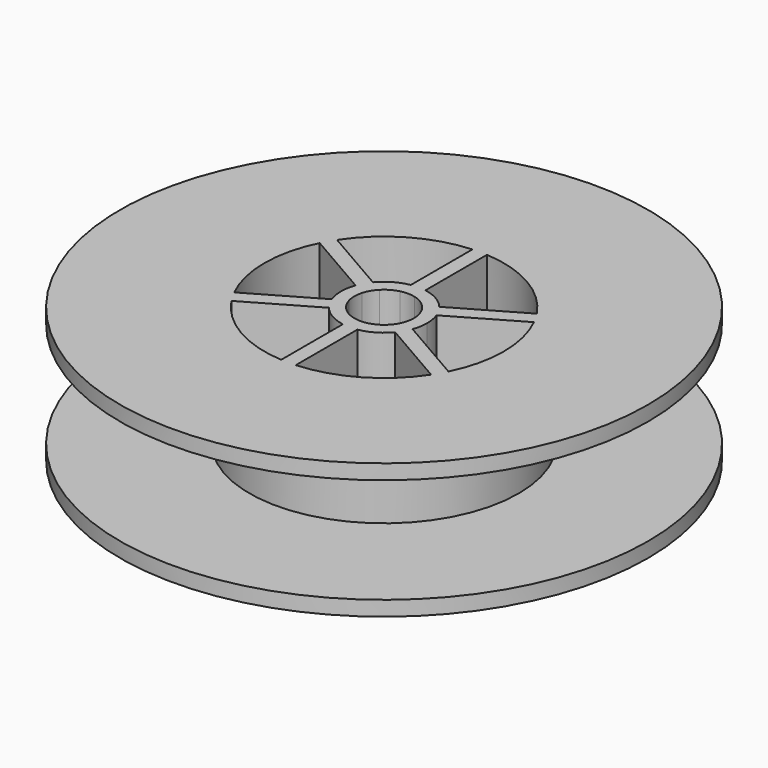
from build123d import *

# Parameters (mm, degrees)
F0_R     = 44.375
F1_DEPTH = 22.7
F2_R     = 44.375
F2_R_2   = 22.625
F3_DEPTH = 20.2
F4_R     = 44.375
F4_R_2   = 22.625
F5_DEPTH = 2.5


with BuildPart() as f1:
    # F0 (on Top) → F1 (new body)
    with BuildSketch(Plane.XY):
        Circle(F0_R)
        with BuildLine():
            ThreePointArc((18.0086459229, 8.9835570362), (19.5887674982, 4.6147386601), (20.125, 0))
            ThreePointArc((20.125, 0), (19.5887674982, -4.6147386601), (18.0086459229, -8.9835570362))
            Line((18.0086459229, -8.9835570362), (19.3430855029, -9.753996087))
            Line((19.3430855029, -9.753996087), (18.1187511512, -11.8746053896))
            Line((18.1187511512, -11.8746053896), (16.7843115712, -11.1041663389))
            ThreePointArc((16.7843115712, -11.1041663389), (10.0625, -17.4287612512), (1.2243343517, -20.0877233751))
            Line((1.2243343517, -20.0877233751), (1.2243343517, -21.6286014766))
            Line((1.2243343517, -21.6286014766), (-1.2243343517, -21.6286014766))
            Line((-1.2243343517, -21.6286014766), (-1.2243343517, -20.0877233751))
            ThreePointArc((-1.2243343517, -20.0877233751), (-10.0625, -17.4287612512), (-16.7843115712, -11.1041663389))
            Line((-16.7843115712, -11.1041663389), (-18.1187511512, -11.8746053896))
            Line((-18.1187511512, -11.8746053896), (-19.3430855029, -9.753996087))
            Line((-19.3430855029, -9.753996087), (-18.0086459229, -8.9835570362))
            ThreePointArc((-18.0086459229, -8.9835570362), (-20.125, 0), (-18.0086459229, 8.9835570362))
            Line((-18.0086459229, 8.9835570362), (-19.3430855029, 9.753996087))
            Line((-19.3430855029, 9.753996087), (-18.1187511512, 11.8746053896))
            Line((-18.1187511512, 11.8746053896), (-16.7843115712, 11.1041663389))
            ThreePointArc((-16.7843115712, 11.1041663389), (-10.0625, 17.4287612512), (-1.2243343517, 20.0877233751))
            Line((-1.2243343517, 20.0877233751), (-1.2243343517, 21.6286014766))
            Line((-1.2243343517, 21.6286014766), (1.2243343517, 21.6286014766))
            Line((1.2243343517, 21.6286014766), (1.2243343517, 20.0877233751))
            ThreePointArc((1.2243343517, 20.0877233751), (10.0625, 17.4287612512), (16.7843115712, 11.1041663389))
            Line((16.7843115712, 11.1041663389), (18.1187511512, 11.8746053896))
            Line((18.1187511512, 11.8746053896), (19.3430855029, 9.753996087))
            Line((19.3430855029, 9.753996087), (18.0086459229, 8.9835570362))
        make_face(mode=Mode.SUBTRACT)
        with BuildLine():
            Line((-5.5763406448, 4.6332413075), (-16.7843115712, 11.1041663389))
            ThreePointArc((-16.7843115712, 11.1041663389), (-17.4287612512, 10.0625), (-18.0086459229, 8.9835570362))
            Line((-18.0086459229, 8.9835570362), (-6.8006749965, 2.5126320048))
            ThreePointArc((-6.8006749965, 2.5126320048), (-6.2786841774, 3.625), (-5.5763406448, 4.6332413075))
        make_face()
        with BuildLine():
            Line((1.2243343517, 7.1458733123), (1.2243343517, 20.0877233751))
            ThreePointArc((1.2243343517, 20.0877233751), (0, 20.125), (-1.2243343517, 20.0877233751))
            Line((-1.2243343517, 20.0877233751), (-1.2243343517, 7.1458733123))
            ThreePointArc((-1.2243343517, 7.1458733123), (0, 7.25), (1.2243343517, 7.1458733123))
        make_face()
        with BuildLine():
            Line((6.8006749965, 2.5126320048), (18.0086459229, 8.9835570362))
            ThreePointArc((18.0086459229, 8.9835570362), (17.4287612512, 10.0625), (16.7843115712, 11.1041663389))
            Line((16.7843115712, 11.1041663389), (5.5763406448, 4.6332413075))
            ThreePointArc((5.5763406448, 4.6332413075), (6.2786841774, 3.625), (6.8006749965, 2.5126320048))
        make_face()
        with BuildLine():
            ThreePointArc((16.7843115712, -11.1041663389), (17.4287612512, -10.0625), (18.0086459229, -8.9835570362))
            Line((18.0086459229, -8.9835570362), (6.8006749965, -2.5126320048))
            ThreePointArc((6.8006749965, -2.5126320048), (6.2786841774, -3.625), (5.5763406448, -4.6332413075))
            Line((5.5763406448, -4.6332413075), (16.7843115712, -11.1041663389))
        make_face()
        with BuildLine():
            ThreePointArc((-18.0086459229, -8.9835570362), (-17.4287612512, -10.0625), (-16.7843115712, -11.1041663389))
            Line((-16.7843115712, -11.1041663389), (-5.5763406448, -4.6332413075))
            ThreePointArc((-5.5763406448, -4.6332413075), (-6.2786841774, -3.625), (-6.8006749965, -2.5126320048))
            Line((-6.8006749965, -2.5126320048), (-18.0086459229, -8.9835570362))
        make_face()
        with BuildLine():
            ThreePointArc((-1.2243343517, -20.0877233751), (0, -20.125), (1.2243343517, -20.0877233751))
            Line((1.2243343517, -20.0877233751), (1.2243343517, -7.1458733123))
            ThreePointArc((1.2243343517, -7.1458733123), (0, -7.25), (-1.2243343517, -7.1458733123))
            Line((-1.2243343517, -7.1458733123), (-1.2243343517, -20.0877233751))
        make_face()
        with BuildLine():
            ThreePointArc((-18.0086459229, 8.9835570362), (-17.4287612512, 10.0625), (-16.7843115712, 11.1041663389))
            Line((-16.7843115712, 11.1041663389), (-18.1187511512, 11.8746053896))
            Line((-18.1187511512, 11.8746053896), (-19.3430855029, 9.753996087))
            Line((-19.3430855029, 9.753996087), (-18.0086459229, 8.9835570362))
        make_face()
        with BuildLine():
            ThreePointArc((-1.2243343517, 20.0877233751), (0, 20.125), (1.2243343517, 20.0877233751))
            Line((1.2243343517, 20.0877233751), (1.2243343517, 21.6286014766))
            Line((1.2243343517, 21.6286014766), (-1.2243343517, 21.6286014766))
            Line((-1.2243343517, 21.6286014766), (-1.2243343517, 20.0877233751))
        make_face()
        with BuildLine():
            ThreePointArc((16.7843115712, 11.1041663389), (17.4287612512, 10.0625), (18.0086459229, 8.9835570362))
            Line((18.0086459229, 8.9835570362), (19.3430855029, 9.753996087))
            Line((19.3430855029, 9.753996087), (18.1187511512, 11.8746053896))
            Line((18.1187511512, 11.8746053896), (16.7843115712, 11.1041663389))
        make_face()
        with BuildLine():
            Line((19.3430855029, -9.753996087), (18.0086459229, -8.9835570362))
            ThreePointArc((18.0086459229, -8.9835570362), (17.4287612512, -10.0625), (16.7843115712, -11.1041663389))
            Line((16.7843115712, -11.1041663389), (18.1187511512, -11.8746053896))
            Line((18.1187511512, -11.8746053896), (19.3430855029, -9.753996087))
        make_face()
        with BuildLine():
            Line((1.2243343517, -21.6286014766), (1.2243343517, -20.0877233751))
            ThreePointArc((1.2243343517, -20.0877233751), (0, -20.125), (-1.2243343517, -20.0877233751))
            Line((-1.2243343517, -20.0877233751), (-1.2243343517, -21.6286014766))
            Line((-1.2243343517, -21.6286014766), (1.2243343517, -21.6286014766))
        make_face()
        with BuildLine():
            Line((-18.1187511512, -11.8746053896), (-16.7843115712, -11.1041663389))
            ThreePointArc((-16.7843115712, -11.1041663389), (-17.4287612512, -10.0625), (-18.0086459229, -8.9835570362))
            Line((-18.0086459229, -8.9835570362), (-19.3430855029, -9.753996087))
            Line((-19.3430855029, -9.753996087), (-18.1187511512, -11.8746053896))
        make_face()
        with BuildLine():
            Line((-3.5861365347, 3.4841964288), (-5.5763406448, 4.6332413075))
            ThreePointArc((-5.5763406448, 4.6332413075), (-6.2786841774, 3.625), (-6.8006749965, 2.5126320048))
            Line((-6.8006749965, 2.5126320048), (-4.8104708865, 1.3635871261))
            ThreePointArc((-4.8104708865, 1.3635871261), (-4.3301270189, 2.5), (-3.5861365347, 3.4841964288))
        make_face()
        with BuildLine():
            Line((-4.8104708865, 1.3635871261), (-6.8006749965, 2.5126320048))
            ThreePointArc((-6.8006749965, 2.5126320048), (-7.25, 0), (-6.8006749965, -2.5126320048))
            Line((-6.8006749965, -2.5126320048), (-4.8104708865, -1.3635871261))
            ThreePointArc((-4.8104708865, -1.3635871261), (-5, 0), (-4.8104708865, 1.3635871261))
        make_face()
        with BuildLine():
            ThreePointArc((-6.8006749965, -2.5126320048), (-6.2786841774, -3.625), (-5.5763406448, -4.6332413075))
            Line((-5.5763406448, -4.6332413075), (-3.5861365347, -3.4841964288))
            ThreePointArc((-3.5861365347, -3.4841964288), (-4.3301270189, -2.5), (-4.8104708865, -1.3635871261))
            Line((-4.8104708865, -1.3635871261), (-6.8006749965, -2.5126320048))
        make_face()
        with BuildLine():
            ThreePointArc((-5.5763406448, -4.6332413075), (-3.625, -6.2786841774), (-1.2243343517, -7.1458733123))
            Line((-1.2243343517, -7.1458733123), (-1.2243343517, -4.8477835549))
            ThreePointArc((-1.2243343517, -4.8477835549), (-2.5, -4.3301270189), (-3.5861365347, -3.4841964288))
            Line((-3.5861365347, -3.4841964288), (-5.5763406448, -4.6332413075))
        make_face()
        with BuildLine():
            ThreePointArc((-1.2243343517, -7.1458733123), (0, -7.25), (1.2243343517, -7.1458733123))
            Line((1.2243343517, -7.1458733123), (1.2243343517, -4.8477835549))
            ThreePointArc((1.2243343517, -4.8477835549), (0, -5), (-1.2243343517, -4.8477835549))
            Line((-1.2243343517, -4.8477835549), (-1.2243343517, -7.1458733123))
        make_face()
        with BuildLine():
            ThreePointArc((5.5763406448, -4.6332413075), (6.2786841774, -3.625), (6.8006749965, -2.5126320048))
            Line((6.8006749965, -2.5126320048), (4.8104708865, -1.3635871261))
            ThreePointArc((4.8104708865, -1.3635871261), (4.3301270189, -2.5), (3.5861365347, -3.4841964288))
            Line((3.5861365347, -3.4841964288), (5.5763406448, -4.6332413075))
        make_face()
        with BuildLine():
            ThreePointArc((7.25, 0), (7.1367847706, 1.2762457199), (6.8006749965, 2.5126320048))
            Line((6.8006749965, 2.5126320048), (4.8104708865, 1.3635871261))
            ThreePointArc((4.8104708865, 1.3635871261), (4.9523910605, 0.6883478654), (5, 0))
            ThreePointArc((5, 0), (4.9523910605, -0.6883478654), (4.8104708865, -1.3635871261))
            Line((4.8104708865, -1.3635871261), (6.8006749965, -2.5126320048))
            ThreePointArc((6.8006749965, -2.5126320048), (7.1367847706, -1.2762457199), (7.25, 0))
        make_face()
        with BuildLine():
            Line((4.8104708865, 1.3635871261), (6.8006749965, 2.5126320048))
            ThreePointArc((6.8006749965, 2.5126320048), (6.2786841774, 3.625), (5.5763406448, 4.6332413075))
            Line((5.5763406448, 4.6332413075), (3.5861365347, 3.4841964288))
            ThreePointArc((3.5861365347, 3.4841964288), (4.3301270189, 2.5), (4.8104708865, 1.3635871261))
        make_face()
        with BuildLine():
            Line((3.5861365347, 3.4841964288), (5.5763406448, 4.6332413075))
            ThreePointArc((5.5763406448, 4.6332413075), (3.625, 6.2786841774), (1.2243343517, 7.1458733123))
            Line((1.2243343517, 7.1458733123), (1.2243343517, 4.8477835549))
            ThreePointArc((1.2243343517, 4.8477835549), (2.5, 4.3301270189), (3.5861365347, 3.4841964288))
        make_face()
        with BuildLine():
            Line((-1.2243343517, 4.8477835549), (-1.2243343517, 7.1458733123))
            ThreePointArc((-1.2243343517, 7.1458733123), (-3.625, 6.2786841774), (-5.5763406448, 4.6332413075))
            Line((-5.5763406448, 4.6332413075), (-3.5861365347, 3.4841964288))
            ThreePointArc((-3.5861365347, 3.4841964288), (-2.5, 4.3301270189), (-1.2243343517, 4.8477835549))
        make_face()
        with BuildLine():
            Line((1.2243343517, 4.8477835549), (1.2243343517, 7.1458733123))
            ThreePointArc((1.2243343517, 7.1458733123), (0, 7.25), (-1.2243343517, 7.1458733123))
            Line((-1.2243343517, 7.1458733123), (-1.2243343517, 4.8477835549))
            ThreePointArc((-1.2243343517, 4.8477835549), (0, 5), (1.2243343517, 4.8477835549))
        make_face()
        with BuildLine():
            ThreePointArc((1.2243343517, -7.1458733123), (3.625, -6.2786841774), (5.5763406448, -4.6332413075))
            Line((5.5763406448, -4.6332413075), (3.5861365347, -3.4841964288))
            ThreePointArc((3.5861365347, -3.4841964288), (2.5, -4.3301270189), (1.2243343517, -4.8477835549))
            Line((1.2243343517, -4.8477835549), (1.2243343517, -7.1458733123))
        make_face()
    extrude(amount=F1_DEPTH)

    # F2 (on face) → F3 (cut)
    with BuildSketch(Plane.XY.offset(22.7)):
        Circle(F2_R)
        Circle(F2_R_2, mode=Mode.SUBTRACT)
    extrude(amount=-F3_DEPTH, mode=Mode.SUBTRACT)

    # F4 (on face) → F5 (join)
    with BuildSketch(Plane.XY.offset(22.7)):
        Circle(F4_R)
        Circle(F4_R_2, mode=Mode.SUBTRACT)
    extrude(amount=-F5_DEPTH)


solid = f1.part
